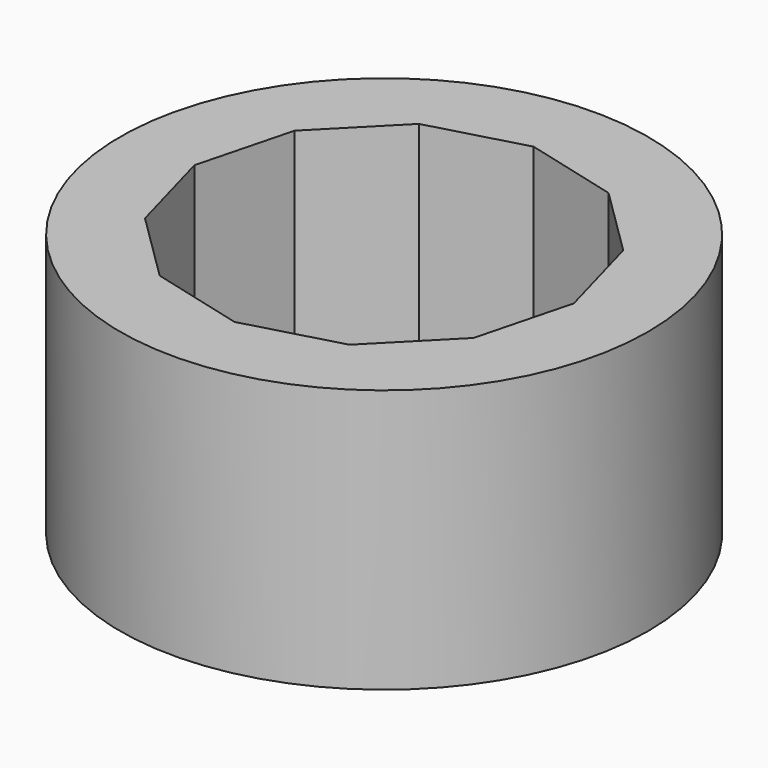
from build123d import *

# Parameters (mm, degrees)
F0_R     = 76.074982
F1_DEPTH = 75.946
F3_DEPTH = 149.098


with BuildPart() as f1:
    # F0 (on Top) → F1 (new body)
    with BuildSketch(Plane.XY):
        Circle(F0_R)
    extrude(amount=F1_DEPTH)

    # F2 (on face) → F3 (cut)
    with BuildSketch(Plane.XY.offset(75.946)):
        Polygon((27.523516, -46.898241), (47.285184, -26.85331), (54.376826, 0.386944), (46.898241, 27.523516), (26.85331, 47.285184), (-0.386944, 54.376826), (-27.523516, 46.898241), (-47.285184, 26.85331), (-54.376826, -0.386944), (-46.898241, -27.523516), (-26.85331, -47.285184), (0.386944, -54.376826), align=None)
    extrude(amount=-F3_DEPTH, mode=Mode.SUBTRACT)


solid = f1.part
